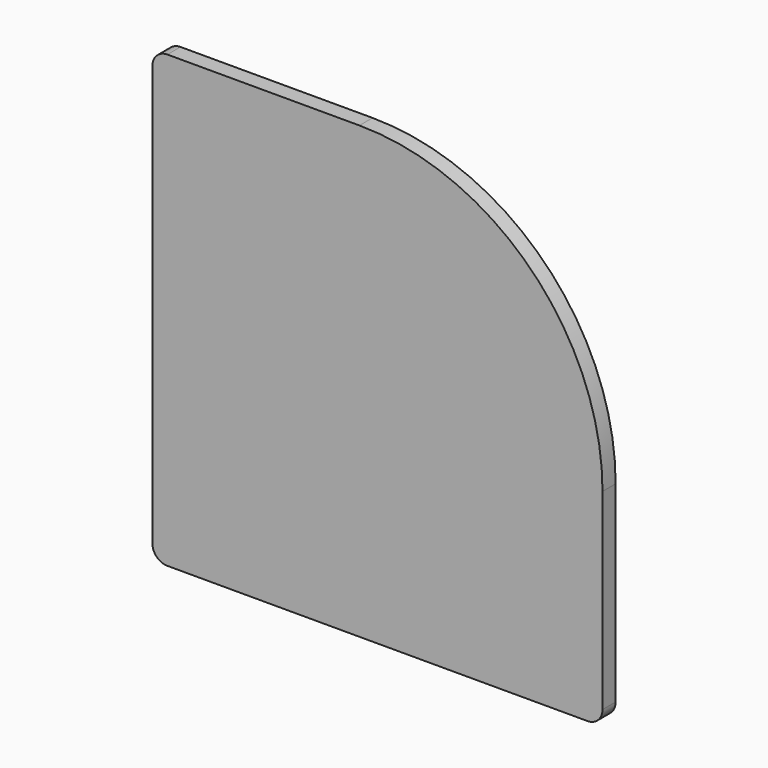
from build123d import *

# Parameters (mm, degrees)
F1_DEPTH = 2.778125
F2_R     = 2.54


with BuildPart() as f1:
    # F0 (on Front) → F1 (new body)
    with BuildSketch(Plane.XZ):
        with BuildLine():
            Line((41.148, -35.052), (41.148, 0))
            ThreePointArc((41.148, 0), (29.09603, 29.09603), (0, 41.148))
            Line((0, 41.148), (-35.052, 41.148))
            Line((-35.052, 41.148), (-35.052, -35.052))
            Line((-35.052, -35.052), (41.148, -35.052))
        make_face()
    extrude(amount=F1_DEPTH)

    # F2
    f2_edges = [f1.edges().sort_by_distance(p)[0] for p in [
        (-35.052, -1.389063, -35.052),
        (-35.052, -1.389063, 41.148),
        (41.148, -1.389063, -35.052),
    ]]
    fillet(f2_edges, radius=F2_R)


solid = f1.part
